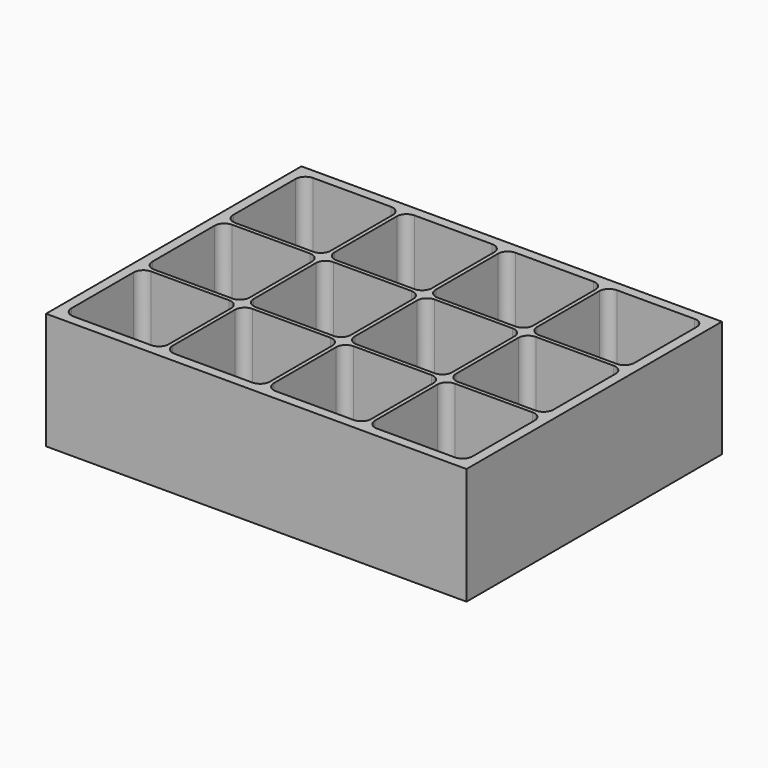
from build123d import *

# Parameters (mm, degrees)
F0_W     = 216
F0_H     = 164
F1_DEPTH = 60
F3_DEPTH = 58


with BuildPart() as f1:
    # F0 (on Top) → F1 (new body)
    with BuildSketch(Plane.XY):
        with Locations((3.771866, 32.061749)):
            Rectangle(F0_W, F0_H)
    extrude(amount=F1_DEPTH)

    # F2 (on face) → F3 (cut)
    with BuildSketch(Plane.XY.offset(60)):
        with BuildLine():
            ThreePointArc((-99.228134, -39.938251), (-97.763668, -43.473785), (-94.228134, -44.938251))
            Line((-94.228134, -44.938251), (-54.228134, -44.938251))
            ThreePointArc((-54.228134, -44.938251), (-50.6926, -43.473785), (-49.228134, -39.938251))
            Line((-49.228134, -39.938251), (-49.228134, 0.061749))
            ThreePointArc((-49.228134, 0.061749), (-50.6926, 3.597283), (-54.228134, 5.061749))
            Line((-54.228134, 5.061749), (-94.228134, 5.061749))
            ThreePointArc((-94.228134, 5.061749), (-97.763668, 3.597283), (-99.228134, 0.061749))
            Line((-99.228134, 0.061749), (-99.228134, -39.938251))
        make_face()
        with BuildLine():
            ThreePointArc((-54.228134, 7.061749), (-50.6926, 8.526215), (-49.228134, 12.061749))
            Line((-49.228134, 12.061749), (-49.228134, 52.061749))
            ThreePointArc((-49.228134, 52.061749), (-50.6926, 55.597283), (-54.228134, 57.061749))
            Line((-54.228134, 57.061749), (-94.228134, 57.061749))
            ThreePointArc((-94.228134, 57.061749), (-97.763668, 55.597283), (-99.228134, 52.061749))
            Line((-99.228134, 52.061749), (-99.228134, 12.061749))
            ThreePointArc((-99.228134, 12.061749), (-97.763668, 8.526215), (-94.228134, 7.061749))
            Line((-94.228134, 7.061749), (-54.228134, 7.061749))
        make_face()
        with BuildLine():
            ThreePointArc((-54.228134, 59.061749), (-50.6926, 60.526215), (-49.228134, 64.061749))
            Line((-49.228134, 64.061749), (-49.228134, 104.061749))
            ThreePointArc((-49.228134, 104.061749), (-50.6926, 107.597283), (-54.228134, 109.061749))
            Line((-54.228134, 109.061749), (-94.228134, 109.061749))
            ThreePointArc((-94.228134, 109.061749), (-97.763668, 107.597283), (-99.228134, 104.061749))
            Line((-99.228134, 104.061749), (-99.228134, 64.061749))
            ThreePointArc((-99.228134, 64.061749), (-97.763668, 60.526215), (-94.228134, 59.061749))
            Line((-94.228134, 59.061749), (-54.228134, 59.061749))
        make_face()
        with BuildLine():
            ThreePointArc((-2.228134, -44.938251), (1.3074, -43.473785), (2.771866, -39.938251))
            Line((2.771866, -39.938251), (2.771866, 0.061749))
            ThreePointArc((2.771866, 0.061749), (1.3074, 3.597283), (-2.228134, 5.061749))
            Line((-2.228134, 5.061749), (-42.228134, 5.061749))
            ThreePointArc((-42.228134, 5.061749), (-45.763668, 3.597283), (-47.228134, 0.061749))
            Line((-47.228134, 0.061749), (-47.228134, -39.938251))
            ThreePointArc((-47.228134, -39.938251), (-45.763668, -43.473785), (-42.228134, -44.938251))
            Line((-42.228134, -44.938251), (-2.228134, -44.938251))
        make_face()
        with BuildLine():
            ThreePointArc((-2.228134, 7.061749), (1.3074, 8.526215), (2.771866, 12.061749))
            Line((2.771866, 12.061749), (2.771866, 52.061749))
            ThreePointArc((2.771866, 52.061749), (1.3074, 55.597283), (-2.228134, 57.061749))
            Line((-2.228134, 57.061749), (-42.228134, 57.061749))
            ThreePointArc((-42.228134, 57.061749), (-45.763668, 55.597283), (-47.228134, 52.061749))
            Line((-47.228134, 52.061749), (-47.228134, 12.061749))
            ThreePointArc((-47.228134, 12.061749), (-45.763668, 8.526215), (-42.228134, 7.061749))
            Line((-42.228134, 7.061749), (-2.228134, 7.061749))
        make_face()
        with BuildLine():
            ThreePointArc((-2.228134, 59.061749), (1.3074, 60.526215), (2.771866, 64.061749))
            Line((2.771866, 64.061749), (2.771866, 104.061749))
            ThreePointArc((2.771866, 104.061749), (1.3074, 107.597283), (-2.228134, 109.061749))
            Line((-2.228134, 109.061749), (-42.228134, 109.061749))
            ThreePointArc((-42.228134, 109.061749), (-45.763668, 107.597283), (-47.228134, 104.061749))
            Line((-47.228134, 104.061749), (-47.228134, 64.061749))
            ThreePointArc((-47.228134, 64.061749), (-45.763668, 60.526215), (-42.228134, 59.061749))
            Line((-42.228134, 59.061749), (-2.228134, 59.061749))
        make_face()
        with BuildLine():
            ThreePointArc((49.771866, -44.938251), (53.3074, -43.473785), (54.771866, -39.938251))
            Line((54.771866, -39.938251), (54.771866, 0.061749))
            ThreePointArc((54.771866, 0.061749), (53.3074, 3.597283), (49.771866, 5.061749))
            Line((49.771866, 5.061749), (9.771866, 5.061749))
            ThreePointArc((9.771866, 5.061749), (6.236332, 3.597283), (4.771866, 0.061749))
            Line((4.771866, 0.061749), (4.771866, -39.938251))
            ThreePointArc((4.771866, -39.938251), (6.236332, -43.473785), (9.771866, -44.938251))
            Line((9.771866, -44.938251), (49.771866, -44.938251))
        make_face()
        with BuildLine():
            ThreePointArc((49.771866, 7.061749), (53.3074, 8.526215), (54.771866, 12.061749))
            Line((54.771866, 12.061749), (54.771866, 52.061749))
            ThreePointArc((54.771866, 52.061749), (53.3074, 55.597283), (49.771866, 57.061749))
            Line((49.771866, 57.061749), (9.771866, 57.061749))
            ThreePointArc((9.771866, 57.061749), (6.236332, 55.597283), (4.771866, 52.061749))
            Line((4.771866, 52.061749), (4.771866, 12.061749))
            ThreePointArc((4.771866, 12.061749), (6.236332, 8.526215), (9.771866, 7.061749))
            Line((9.771866, 7.061749), (49.771866, 7.061749))
        make_face()
        with BuildLine():
            ThreePointArc((49.771866, 59.061749), (53.3074, 60.526215), (54.771866, 64.061749))
            Line((54.771866, 64.061749), (54.771866, 104.061749))
            ThreePointArc((54.771866, 104.061749), (53.3074, 107.597283), (49.771866, 109.061749))
            Line((49.771866, 109.061749), (9.771866, 109.061749))
            ThreePointArc((9.771866, 109.061749), (6.236332, 107.597283), (4.771866, 104.061749))
            Line((4.771866, 104.061749), (4.771866, 64.061749))
            ThreePointArc((4.771866, 64.061749), (6.236332, 60.526215), (9.771866, 59.061749))
            Line((9.771866, 59.061749), (49.771866, 59.061749))
        make_face()
        with BuildLine():
            ThreePointArc((101.771866, -44.938251), (105.3074, -43.473785), (106.771866, -39.938251))
            Line((106.771866, -39.938251), (106.771866, 0.061749))
            ThreePointArc((106.771866, 0.061749), (105.3074, 3.597283), (101.771866, 5.061749))
            Line((101.771866, 5.061749), (61.771866, 5.061749))
            ThreePointArc((61.771866, 5.061749), (58.236332, 3.597283), (56.771866, 0.061749))
            Line((56.771866, 0.061749), (56.771866, -39.938251))
            ThreePointArc((56.771866, -39.938251), (58.236332, -43.473785), (61.771866, -44.938251))
            Line((61.771866, -44.938251), (101.771866, -44.938251))
        make_face()
        with BuildLine():
            ThreePointArc((101.771866, 7.061749), (105.3074, 8.526215), (106.771866, 12.061749))
            Line((106.771866, 12.061749), (106.771866, 52.061749))
            ThreePointArc((106.771866, 52.061749), (105.3074, 55.597283), (101.771866, 57.061749))
            Line((101.771866, 57.061749), (61.771866, 57.061749))
            ThreePointArc((61.771866, 57.061749), (58.236332, 55.597283), (56.771866, 52.061749))
            Line((56.771866, 52.061749), (56.771866, 12.061749))
            ThreePointArc((56.771866, 12.061749), (58.236332, 8.526215), (61.771866, 7.061749))
            Line((61.771866, 7.061749), (101.771866, 7.061749))
        make_face()
        with BuildLine():
            ThreePointArc((101.771866, 59.061749), (105.3074, 60.526215), (106.771866, 64.061749))
            Line((106.771866, 64.061749), (106.771866, 104.061749))
            ThreePointArc((106.771866, 104.061749), (105.3074, 107.597283), (101.771866, 109.061749))
            Line((101.771866, 109.061749), (61.771866, 109.061749))
            ThreePointArc((61.771866, 109.061749), (58.236332, 107.597283), (56.771866, 104.061749))
            Line((56.771866, 104.061749), (56.771866, 64.061749))
            ThreePointArc((56.771866, 64.061749), (58.236332, 60.526215), (61.771866, 59.061749))
            Line((61.771866, 59.061749), (101.771866, 59.061749))
        make_face()
    extrude(amount=-F3_DEPTH, mode=Mode.SUBTRACT)


solid = f1.part
